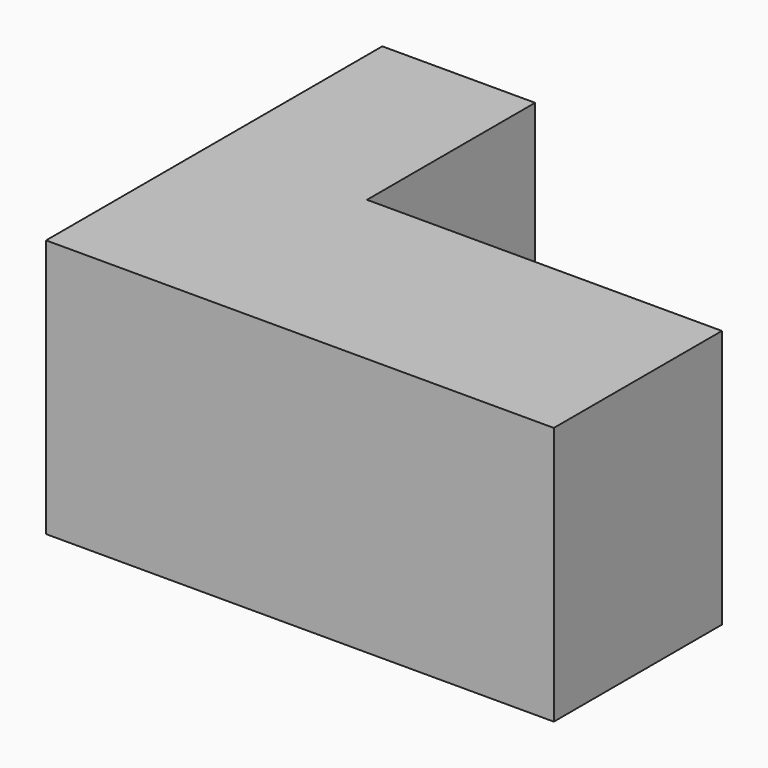
from build123d import *

# Parameters (mm, degrees)
F1_DEPTH = 25.4


with BuildPart() as f1:
    # F0 (on Top) → F1 (new body)
    with BuildSketch(Plane.XY):
        Polygon((15.0094395503, 0), (0, 0), (0, -41.2759594619), (49.8700737953, -41.2759594619), (49.8700737953, -20.637979731), (15.0094395503, -20.637979731), align=None)
    extrude(amount=F1_DEPTH)

    # F2: sweep along a path in F2_path
    with BuildLine(Plane(origin=(49.8700737953, -41.2759594619, 25.4), x_dir=(0, 0, 1), z_dir=(0, -1, 0))) as f2_path:
        Line((0, 0), (-25.4, 0))
    # F1_face (on face) → F2 (sweep)
    with BuildSketch(Plane(origin=(20.9026501287, -26.1825116321, 25.4), x_dir=(1, 0, 0), z_dir=(0, 0, 1))):
        Polygon((-5.8932105783, 26.1825116321), (-20.9026501287, 26.1825116321), (-20.9026501287, -15.0934478298), (28.9674236666, -15.0934478298), (28.9674236666, 5.5445319012), (-5.8932105783, 5.5445319012), align=None)
    sweep(path=f2_path.line)


solid = f1.part
